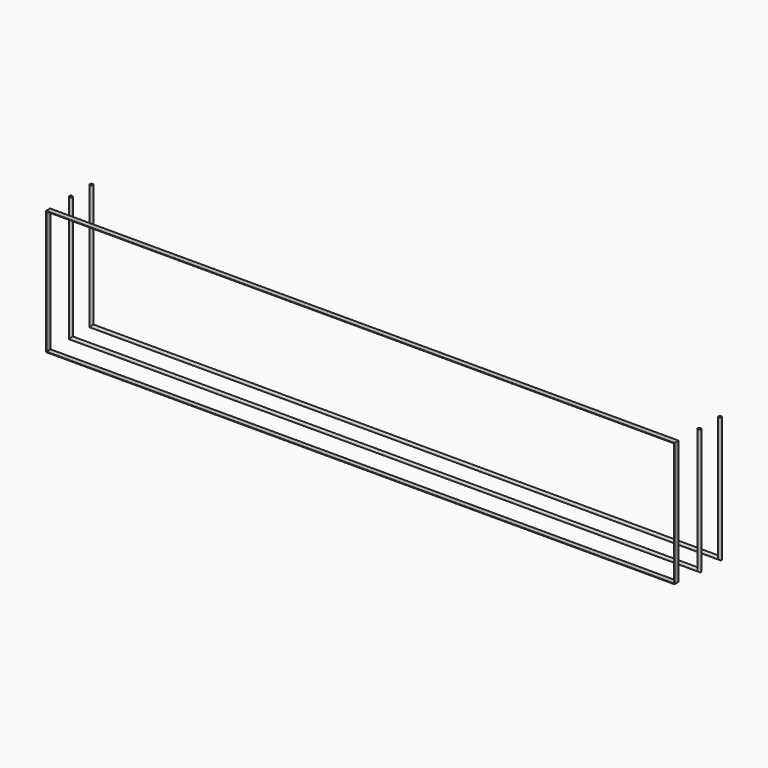
from build123d import *

# Parameters (mm, degrees)
F0_W     = 12175.6
F0_H     = 2410
F0_W_2   = 12155.6
F0_H_2   = 2390
F1_DEPTH = 100
F2_R     = 30


with BuildPart() as f1:
    # F0 (on Front) → F1 (new body)
    with BuildSketch(Plane.XZ):
        with Locations((6087.8, 1205)):
            Rectangle(F0_W, F0_H)
        with Locations((6087.8, 1205)):
            Rectangle(F0_W_2, F0_H_2, mode=Mode.SUBTRACT)
    extrude(amount=F1_DEPTH)


with BuildPart() as f6:
    # F6: sweep along a path in F5
    with BuildLine(Plane.XZ.offset(-500)) as f6_path:
        Line((0, 2410), (0, 0))
        Line((0, 0), (12175.6, 0))
        Line((12175.6, 0), (12175.6, 2410))
    # F2 (on Right) → F6 (sweep)
    with BuildSketch(Plane.YZ):
        with Locations((500, 0)):
            Circle(F2_R)
    sweep(path=f6_path.line, transition=Transition.RIGHT)


with BuildPart() as f8:
    # F8: sweep along a path in F7
    with BuildLine(Plane.XZ.offset(-1000)) as f8_path:
        Line((0, 2410), (0, 0))
        Line((0, 0), (12175.6, 0))
        Line((12175.6, 0), (12175.6, 2410))
    # F2 (on Right) → F8 (sweep)
    with BuildSketch(Plane.YZ):
        with Locations((1000, 0)):
            Circle(F2_R)
    sweep(path=f8_path.line, transition=Transition.RIGHT)


solid = Compound([f1.part, f6.part, f8.part])
